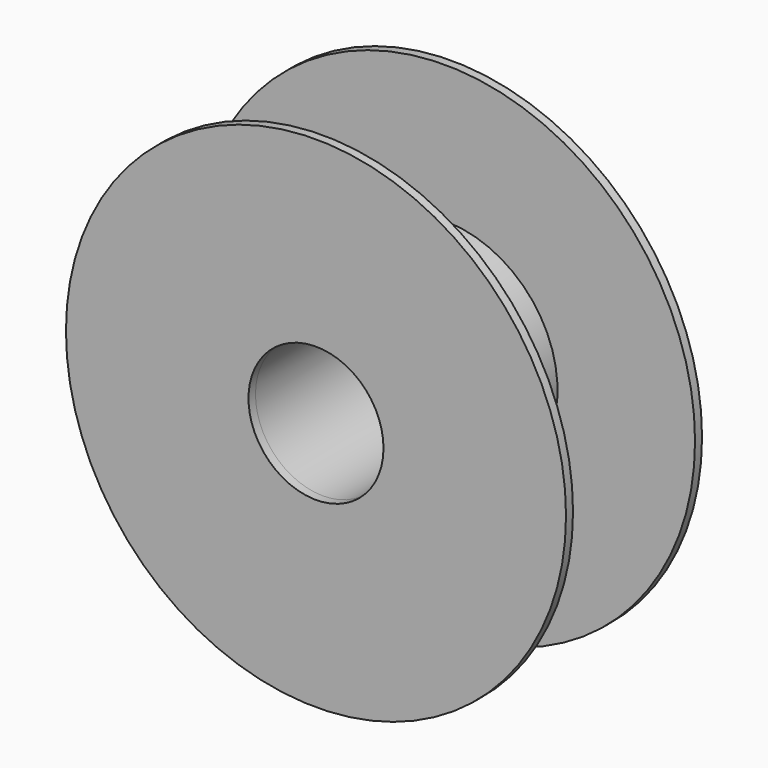
from build123d import *

# Parameters (mm, degrees)
F0_R     = 100
F0_R_2   = 27
F1_DEPTH = 3.5
F2_R     = 45
F2_R_2   = 27
F3_DEPTH = 61
F4_R     = 100
F4_R_2   = 27
F5_DEPTH = 3.5


with BuildPart() as f1:
    # F0 (on Front) → F1 (new body)
    with BuildSketch(Plane.XZ):
        Circle(F0_R)
        Circle(F0_R_2, mode=Mode.SUBTRACT)
    extrude(amount=F1_DEPTH)

    # F2 (on face) → F3 (join)
    with BuildSketch(Plane(origin=(0, 0, 0), x_dir=(-1, 0, 0), z_dir=(0, 1, 0))):
        Circle(F2_R)
        Circle(F2_R_2, mode=Mode.SUBTRACT)
    extrude(amount=F3_DEPTH)

    # F4 (on face) → F5 (join)
    with BuildSketch(Plane(origin=(0, 61, 0), x_dir=(-1, 0, 0), z_dir=(0, 1, 0))):
        Circle(F4_R)
        Circle(F4_R_2, mode=Mode.SUBTRACT)
    extrude(amount=F5_DEPTH)


solid = f1.part
